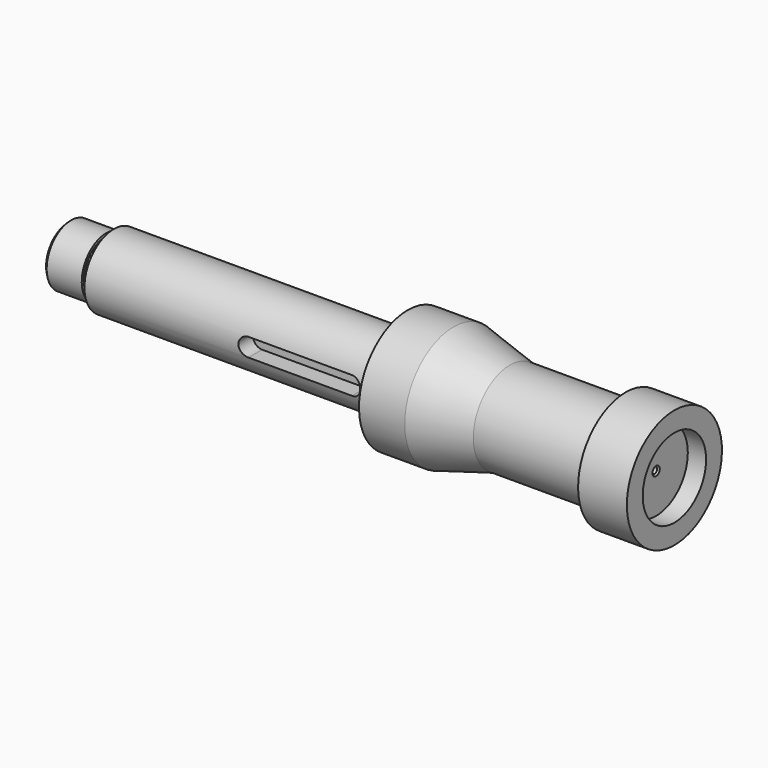
from build123d import *

# Parameters (mm, degrees)
F3_START             = 6
F3_DEPTH             = 9.4
F4_R                 = 13
F5_DEPTH             = 6
F8_D                 = 2
F8_DEPTH             = 6.3
F8_CSINK_D           = 3
F8_CSINK_ANGLE       = 90
F8_TIP               = 0.600860619
F8_ON_F6_D           = 2
F8_ON_F6_DEPTH       = 6.3
F8_ON_F6_CSINK_D     = 3
F8_ON_F6_CSINK_ANGLE = 90
F8_ON_F6_TIP         = 0.600860619


with BuildPart() as f1:
    # F0 (on Front) → F1 (revolve)
    with BuildSketch(Plane.XZ):
        Polygon((1, 10), (0, 9), (0, 0), (183, 0), (183, 15), (145, 15), (126.5, 20), (111.5, 20), (111.5, 12), (15, 12), (15, 9.15), (12.5, 9.15), (12.5, 10), align=None)
        Polygon((183, 15), (183, 0), (199, 0), (199, 19.5), (183, 19.5), align=None)
    revolve(axis=Axis((105.2958741784, 0, 0), (1, 0, 0)))

    # F2 (on Front) → F3 (cut)
    with BuildSketch(Plane.XZ.offset(F3_START)):
        with BuildLine():
            ThreePointArc((102.5, -3), (105.5, 0), (102.5, 3))
            Line((102.5, 3), (68.5, 3))
            ThreePointArc((68.5, 3), (65.5, 0), (68.5, -3))
            Line((68.5, -3), (102.5, -3))
        make_face()
    extrude(amount=F3_DEPTH, mode=Mode.SUBTRACT)

    # F4 (on face) → F5 (cut)
    with BuildSketch(Plane.YZ.offset(199)):
        Circle(F4_R)
    extrude(amount=-F5_DEPTH, mode=Mode.SUBTRACT)

    # F8
    with Locations(Plane(origin=(0, 0, 0), x_dir=(0, -1, 0), z_dir=(-1, 0, 0))):
        with Locations((0, 0)):
            CounterSinkHole(F8_D / 2, F8_CSINK_D / 2, depth=F8_DEPTH, counter_sink_angle=F8_CSINK_ANGLE)
            with Locations((0, 0, -(F8_DEPTH + F8_TIP / 2))):  # 118° drill point
                Cone(0, F8_D / 2, F8_TIP, mode=Mode.SUBTRACT)

    # F8 on F6
    with Locations(Plane.YZ.offset(193)):
        with Locations((0, 0)):
            CounterSinkHole(F8_ON_F6_D / 2, F8_ON_F6_CSINK_D / 2, depth=F8_ON_F6_DEPTH, counter_sink_angle=F8_ON_F6_CSINK_ANGLE)
            with Locations((0, 0, -(F8_ON_F6_DEPTH + F8_ON_F6_TIP / 2))):  # 118° drill point
                Cone(0, F8_ON_F6_D / 2, F8_ON_F6_TIP, mode=Mode.SUBTRACT)


solid = f1.part
